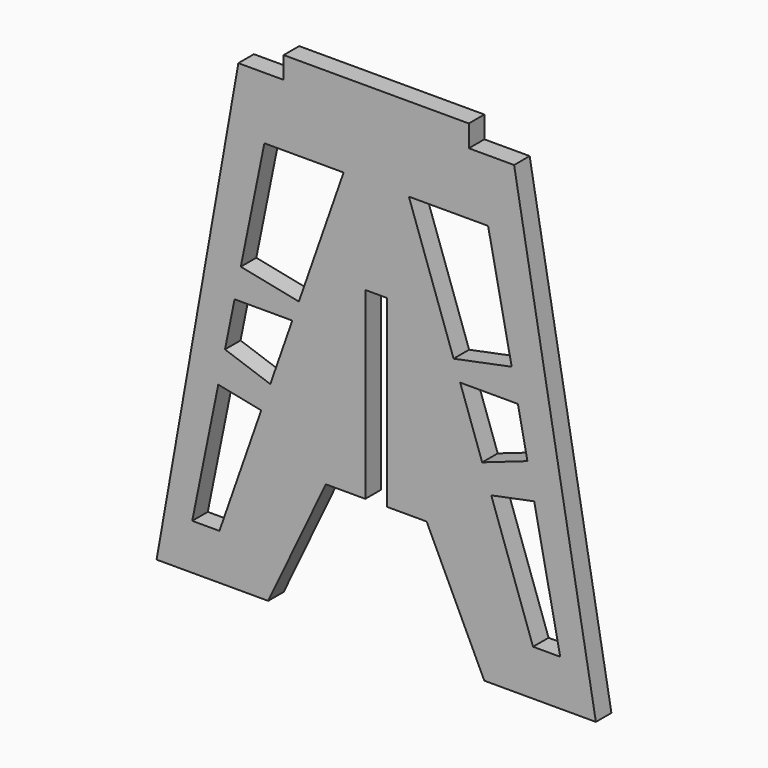
from build123d import *

# Parameters (mm, degrees)
F1_DEPTH = 406.4


with BuildPart() as f1:
    # F0 (on Front) → F1 (new body)
    with BuildSketch(Plane.XZ):
        with BuildLine():
            Line((-8308.445003, 7162.8), (-10019.310432, -2540))
            Line((-10019.310432, -2540), (-7684.076436, -2540))
            Line((-7684.076436, -2540), (-6479.504608, -3.625869))
            ThreePointArc((-6479.504608, -3.625869), (-6477.161569, -0.982471), (-6473.768615, 0))
            Line((-6473.768615, 0), (-5651.801982, 0))
            Line((-5651.801982, 0), (-5651.801982, 3848.479986))
            Line((-5651.801982, 3848.479986), (-5194.601982, 3848.479986))
            Line((-5194.601982, 3848.479986), (-5194.601982, 0))
            Line((-5194.601982, 0), (-4368.621349, 0))
            Line((-4368.621349, 0), (-3162.327528, -2540))
            Line((-3162.327528, -2540), (-827.093532, -2540))
            Line((-827.093532, -2540), (-2537.958961, 7162.8))
            Line((-2537.958961, 7162.8), (-3485.76118, 7162.8))
            Line((-3485.76118, 7162.8), (-3485.76118, 7620))
            Line((-3485.76118, 7620), (-7360.642784, 7620))
            Line((-7360.642784, 7620), (-7360.642784, 7162.8))
            Line((-7360.642784, 7162.8), (-8308.445003, 7162.8))
        make_face()
        Polygon((-7830.476374, 921.984932), (-8704.18442, -1582.644701), (-9273.22007, -1582.644701), (-8728.745257, 1104.026132), align=None, mode=Mode.SUBTRACT)
        Polygon((-8588.038452, 1798.333489), (-8387.586456, 2787.449089), (-7179.733037, 2787.449089), (-7640.122778, 1467.665217), align=None, mode=Mode.SUBTRACT)
        Polygon((-2117.658707, 1104.026132), (-1573.183894, -1582.644701), (-2142.219543, -1582.644701), (-3015.92759, 921.984932), align=None, mode=Mode.SUBTRACT)
        Polygon((-3666.670927, 2787.449089), (-2458.817508, 2787.449089), (-2258.365512, 1798.333489), (-3206.281186, 1467.665217), align=None, mode=Mode.SUBTRACT)
        Polygon((-7764.037974, 5864.303112), (-6106.411822, 5864.303112), (-7041.703035, 3183.135078), (-8257.465991, 3429.51893), align=None, mode=Mode.SUBTRACT)
        Polygon((-4739.992142, 5864.303112), (-3082.36599, 5864.303112), (-2588.937972, 3429.51893), (-3804.700929, 3183.135078), align=None, mode=Mode.SUBTRACT)
    extrude(amount=F1_DEPTH)


solid = f1.part
